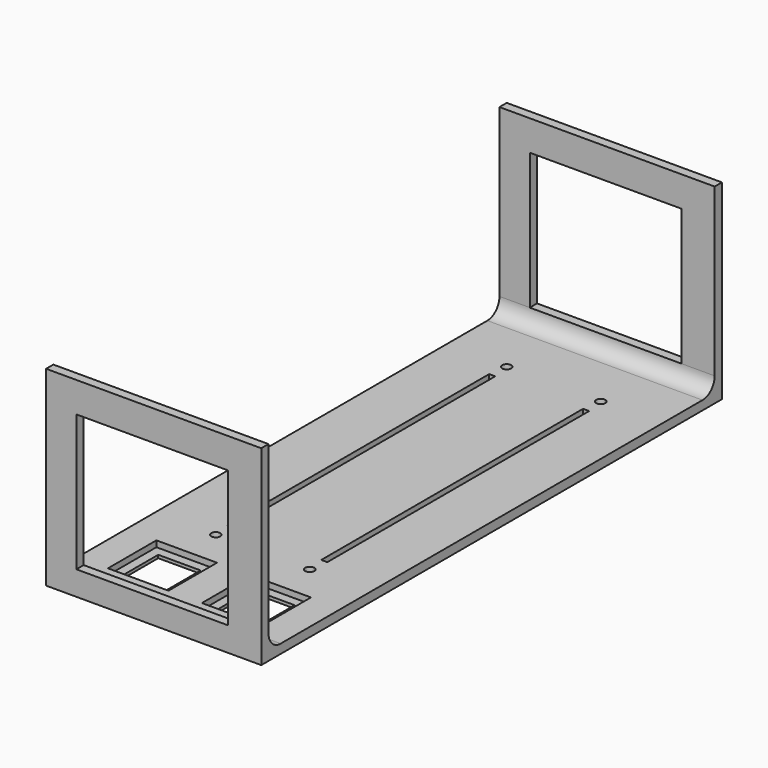
from build123d import *

# Parameters (mm, degrees)
SKETCH_W        = 71
SKETCH_H        = 190
PAD_DEPTH       = 3
SKETCH001_R     = 1.5
SKETCH001_W     = 14
SKETCH001_H     = 14
SKETCH001_W_2   = 2
SKETCH001_H_2   = 108
POCKET_DEPTH    = 3
SKETCH002_W     = 71
SKETCH002_H     = 3
PAD001_DEPTH    = 60
FILLET_R        = 5
SKETCH003_W     = 20
SKETCH003_H     = 20
POCKET001_DEPTH = 2
SKETCH004_W     = 50
SKETCH004_H     = 45
POCKET002_DEPTH = 200


with BuildPart() as part:
    # Sketch → Pad (new body)
    with BuildSketch(Plane.XY):
        Rectangle(SKETCH_W, SKETCH_H)
    extrude(amount=PAD_DEPTH)

    # Sketch001 (on Face6 of Pad) → Pocket (cut)
    with BuildSketch(Plane.XY.offset(3)):
        with Locations((-15.5, 70)):
            Circle(SKETCH001_R)
        with Locations((-15.5, -50)):
            Circle(SKETCH001_R)
        with Locations((15.5, 70)):
            Circle(SKETCH001_R)
        with Locations((15.5, -50)):
            Circle(SKETCH001_R)
        with Locations((-15.5, -72)):
            Rectangle(SKETCH001_W, SKETCH001_H)
        with Locations((-15.5, 10)):
            Rectangle(SKETCH001_W_2, SKETCH001_H_2)
        with Locations((15.5, -72)):
            Rectangle(SKETCH001_W, SKETCH001_H)
        with Locations((15.5, 10)):
            Rectangle(SKETCH001_W_2, SKETCH001_H_2)
    extrude(amount=-POCKET_DEPTH, mode=Mode.SUBTRACT)

    # Sketch002 (on Face5 of Pocket) → Pad001 (join)
    with BuildSketch(Plane.XY.offset(3)):
        with Locations((0, 93.5)):
            Rectangle(SKETCH002_W, SKETCH002_H)
        with Locations((0, -93.5)):
            Rectangle(SKETCH002_W, SKETCH002_H)
    extrude(amount=PAD001_DEPTH)

    # Fillet
    fillet_edges = [part.edges().sort_by_distance(p)[0] for p in [
        (0, 92, 3),
        (0, -92, 3),
    ]]
    fillet(fillet_edges, radius=FILLET_R)

    # Sketch003 (on Face2 of Fillet) → Pocket001 (cut)
    with BuildSketch(Plane.XY.offset(3)):
        with Locations((-15.5, -72)):
            Rectangle(SKETCH003_W, SKETCH003_H)
        with Locations((15.5, -72)):
            Rectangle(SKETCH003_W, SKETCH003_H)
    extrude(amount=-POCKET001_DEPTH, mode=Mode.SUBTRACT)

    # Sketch004 (on Face33 of Pocket001) → Pocket002 (cut)
    with BuildSketch(Plane.XZ.offset(95)):
        with Locations((-0.5, 30.5)):
            Rectangle(SKETCH004_W, SKETCH004_H)
    extrude(amount=-POCKET002_DEPTH, mode=Mode.SUBTRACT)


solid = part.part
